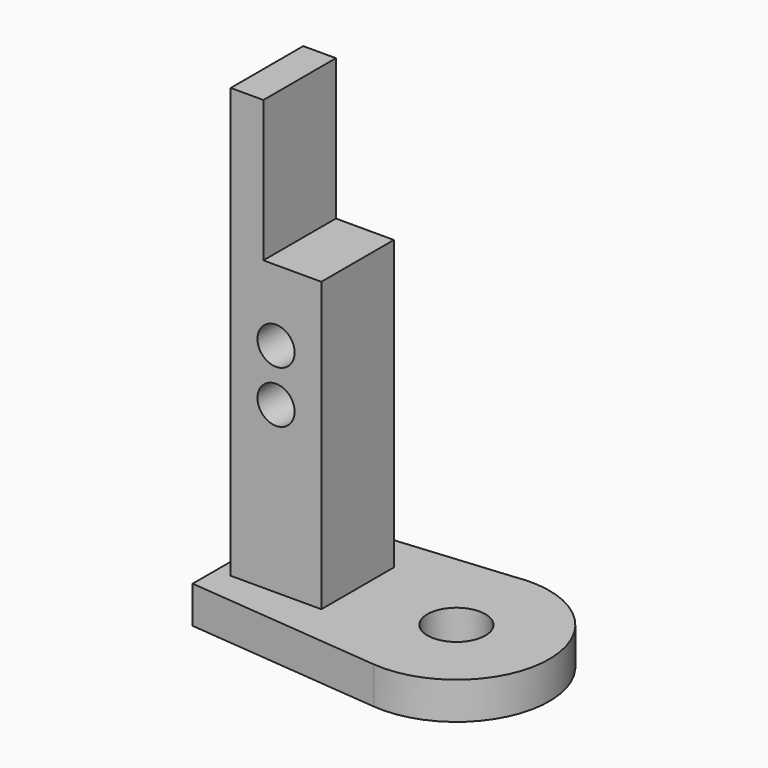
from build123d import *

# Parameters (mm, degrees)
F0_R          = 4.953
F1_DEPTH      = 6.35
F2_R          = 3.175
F3_DEPTH      = 7.747
F3_DEPTH_BACK = 7.747


with BuildPart() as f1:
    # F0 (on Top) → F1 (new body)
    with BuildSketch(Plane.XY):
        with BuildLine():
            Line((-2.756665, 15.633823), (-34.925, 12.7))
            Line((-34.925, 12.7), (-34.925, -12.7))
            Line((-34.925, -12.7), (-1.467914, -15.806988))
            ThreePointArc((-1.467914, -15.806988), (15.861681, 0.650166), (-2.756665, 15.633823))
        make_face()
        Circle(F0_R, mode=Mode.SUBTRACT)
    extrude(amount=-F1_DEPTH)

    # F2 (on Front) → F3 (join, two sides)
    with BuildSketch(Plane.XZ) as f3_sk:
        Polygon((-32.38409, 73.406), (-32.38409, 0), (-16.89009, 0), (-16.89009, 49.276), (-26.79609, 49.276), (-26.79609, 73.406), align=None)
        with Locations((-24.63709, 28.2448)):
            Circle(F2_R, mode=Mode.SUBTRACT)
        with Locations((-24.63709, 37.1348)):
            Circle(F2_R, mode=Mode.SUBTRACT)
    extrude(amount=F3_DEPTH)
    extrude(f3_sk.sketch, amount=-F3_DEPTH_BACK)


solid = f1.part
